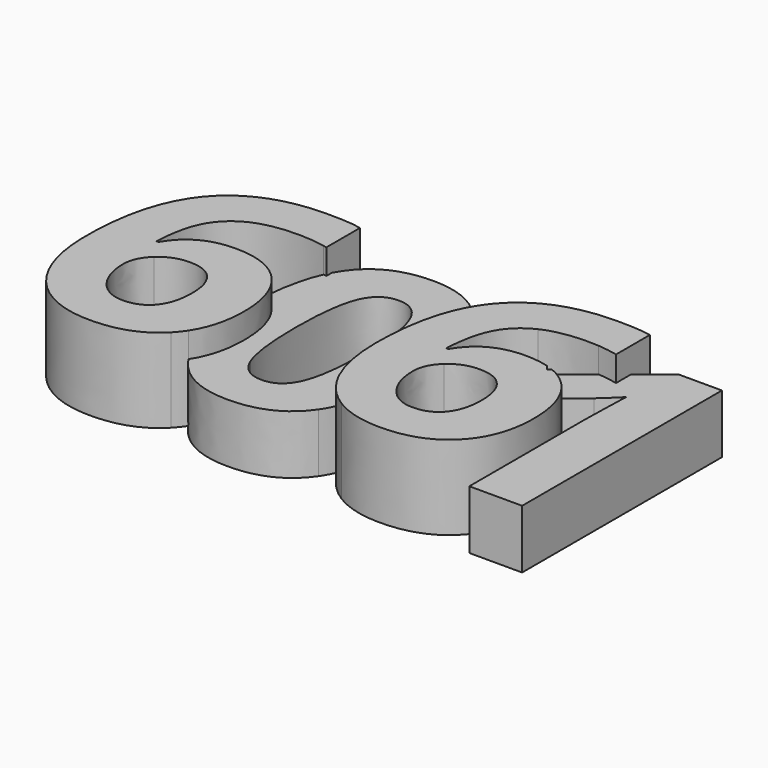
from build123d import *

# Parameters (mm, degrees)
F1_DEPTH = 12.7
F2_DEPTH = 8.89


with BuildPart() as f1:
    # F0 (on Top) → F1 (new body)
    with BuildSketch(Plane.XY):
        with BuildLine():
            add(Edge.make_bspline(
                [(8.2103515625, 22.3986328125), (8.2103515625, 33.6103515625), (12.9521809896, 39.0880533854)],
                knots=[0, 0, 0, 1, 1, 1], degree=2))
            add(Edge.make_bspline(
                [(9.9012044271, 13.4276041667), (8.2103515625, 17.1483072917), (8.2103515625, 22.3986328125)],
                knots=[0, 0, 0, 1, 1, 1], degree=2))
            add(Edge.make_bspline(
                [(14.7091796875, 7.7680013021), (11.5920572917, 9.7069010417), (9.9012044271, 13.4276041667)],
                knots=[0, 0, 0, 1, 1, 1], degree=2))
            add(Edge.make_bspline(
                [(22.0100260417, 5.8291015625), (17.8263020833, 5.8291015625), (14.7091796875, 7.7680013021)],
                knots=[0, 0, 0, 1, 1, 1], degree=2))
            add(Edge.make_bspline(
                [(31.4647460938, 9.3596354167), (28.0541015625, 5.8291015625), (22.0100260417, 5.8291015625)],
                knots=[0, 0, 0, 1, 1, 1], degree=2))
            add(Edge.make_bspline(
                [(32.795240657, 11.0268832409), (32.2118118083, 10.132961623), (31.4647460938, 9.3596354167)],
                knots=[0.7809605464, 0.7809605464, 0.7809605464, 1, 1, 1], degree=2))
            add(Edge.make_bspline(
                [(32.795240657, 11.0268832409), (29.6638070775, 15.9274467853), (29.6638070775, 25.2346354167)],
                knots=[0.0287689131, 0.0287689131, 0.0287689131, 1, 1, 1], degree=2))
            add(Edge.make_bspline(
                [(29.6638070775, 25.2346354167), (29.6638070775, 27.5010676278), (29.8297195285, 29.4974147364)],
                knots=[0, 0, 0, 0.2265399802, 0.2265399802, 0.2265399802], degree=2))
            add(Edge.make_bspline(
                [(24.0770833333, 30.8983723958), (27.436176177, 30.8983723958), (29.8297195285, 29.4974147364)],
                knots=[0, 0, 0, 0.6638318419, 0.6638318419, 0.6638318419], degree=2))
            add(Edge.make_bspline(
                [(15.8832682292, 26.5079427083), (18.4464192708, 30.8983723958), (24.0770833333, 30.8983723958)],
                knots=[0, 0, 0, 1, 1, 1], degree=2))
            Line((15.8832682292, 26.5079427083), (15.5525390625, 26.5079427083))
            add(Edge.make_bspline(
                [(17.0738932292, 33.4036458333), (15.7840494792, 30.9727864583), (15.5525390625, 26.5079427083)],
                knots=[0, 0, 0, 1, 1, 1], degree=2))
            add(Edge.make_bspline(
                [(20.9599609375, 37.0747395833), (18.3637369792, 35.8345052083), (17.0738932292, 33.4036458333)],
                knots=[0, 0, 0, 1, 1, 1], degree=2))
            add(Edge.make_bspline(
                [(27.6654947917, 38.3149739583), (23.5561848958, 38.3149739583), (20.9599609375, 37.0747395833)],
                knots=[0, 0, 0, 1, 1, 1], degree=2))
            add(Edge.make_bspline(
                [(31.7424970988, 37.8953541031), (29.6840140474, 38.3149739583), (27.6654947917, 38.3149739583)],
                knots=[0.1024648052, 0.1024648052, 0.1024648052, 1, 1, 1], degree=2))
            add(Edge.make_bspline(
                [(31.7424970988, 37.8953541031), (31.9657682406, 38.3935660919), (32.2130208333, 38.8527392227)],
                knots=[0.8018631104, 0.8018631104, 0.8018631104, 0.8879908593, 0.8879908593, 0.8879908593], degree=2))
            Line((32.2130208333, 38.8527392227), (32.2130208333, 44.1771484375))
            add(Edge.make_bspline(
                [(27.1528645833, 44.5657552083), (30.3774739583, 44.5657552083), (32.2130208333, 44.1771484375)],
                knots=[0, 0, 0, 1, 1, 1], degree=2))
            add(Edge.make_bspline(
                [(12.9521809896, 39.0880533854), (17.6940104167, 44.5657552083), (27.1528645833, 44.5657552083)],
                knots=[0, 0, 0, 1, 1, 1], degree=2))
        make_face()
        with BuildLine():
            add(Edge.make_bspline(
                [(21.8529296875, 12.2121744792), (24.4078125, 12.2121744792), (25.7803385417, 13.9319661458)],
                knots=[0, 0, 0, 1, 1, 1], degree=2))
            add(Edge.make_bspline(
                [(17.7560221354, 14.3329752604), (19.3724609375, 12.2121744792), (21.8529296875, 12.2121744792)],
                knots=[0, 0, 0, 1, 1, 1], degree=2))
            add(Edge.make_bspline(
                [(16.1395833333, 19.5295572917), (16.1395833333, 16.4537760417), (17.7560221354, 14.3329752604)],
                knots=[0, 0, 0, 1, 1, 1], degree=2))
            add(Edge.make_bspline(
                [(17.859375, 23.1965169271), (16.1395833333, 21.6214192708), (16.1395833333, 19.5295572917)],
                knots=[0, 0, 0, 1, 1, 1], degree=2))
            add(Edge.make_bspline(
                [(22.0100260417, 24.7716145833), (19.5791666667, 24.7716145833), (17.859375, 23.1965169271)],
                knots=[0, 0, 0, 1, 1, 1], degree=2))
            add(Edge.make_bspline(
                [(25.8712890625, 23.1841145833), (24.5897135417, 24.7716145833), (22.0100260417, 24.7716145833)],
                knots=[0, 0, 0, 1, 1, 1], degree=2))
            add(Edge.make_bspline(
                [(27.1528645833, 18.8267578125), (27.1528645833, 21.5966145833), (25.8712890625, 23.1841145833)],
                knots=[0, 0, 0, 1, 1, 1], degree=2))
            add(Edge.make_bspline(
                [(25.7803385417, 13.9319661458), (27.1528645833, 15.6517578125), (27.1528645833, 18.8267578125)],
                knots=[0, 0, 0, 1, 1, 1], degree=2))
        make_face(mode=Mode.SUBTRACT)
        with BuildLine():
            add(Edge.make_bspline(
                [(32.795240657, 11.0268832409), (29.6638070775, 15.9274467853), (29.6638070775, 25.2346354167)],
                knots=[0.0287689131, 0.0287689131, 0.0287689131, 1, 1, 1], degree=2))
            add(Edge.make_bspline(
                [(34.875390625, 18.9342447917), (34.875390625, 14.2140602705), (32.795240657, 11.0268832409)],
                knots=[0, 0, 0, 0.7809605464, 0.7809605464, 0.7809605464], degree=2))
            add(Edge.make_bspline(
                [(32.0063151042, 27.7192382812), (34.875390625, 24.5401041667), (34.875390625, 18.9342447917)],
                knots=[0, 0, 0, 1, 1, 1], degree=2))
            add(Edge.make_bspline(
                [(29.8297195285, 29.4974147364), (31.0418232708, 28.7879619409), (32.0063151042, 27.7192382812)],
                knots=[0.6638318419, 0.6638318419, 0.6638318419, 1, 1, 1], degree=2))
            add(Edge.make_bspline(
                [(29.6638070775, 25.2346354167), (29.6638070775, 27.5010676278), (29.8297195285, 29.4974147364)],
                knots=[0, 0, 0, 0.2265399802, 0.2265399802, 0.2265399802], degree=2))
        make_face()
        with BuildLine():
            Line((32.2130208333, 37.7940755208), (32.2130208333, 38.8527392227))
            add(Edge.make_bspline(
                [(31.7424970988, 37.8953541031), (31.9657682406, 38.3935660919), (32.2130208333, 38.8527392227)],
                knots=[0.8018631104, 0.8018631104, 0.8018631104, 0.8879908593, 0.8879908593, 0.8879908593], degree=2))
            add(Edge.make_bspline(
                [(32.2130208333, 37.7940755208), (31.9774985408, 37.8474492778), (31.7424970988, 37.8953541031)],
                knots=[0, 0, 0, 0.1024648052, 0.1024648052, 0.1024648052], degree=2))
        make_face()
    extrude(amount=F1_DEPTH)


with BuildPart() as f1b:
    # F0 (on Top) → F1, piece 2 (new body)
    with BuildSketch(Plane.XY):
        with BuildLine():
            add(Edge.make_bspline(
                [(54.6259198543, 35.8256988861), (56.0725310358, 31.5261652084), (56.0725310358, 25.2346354167)],
                knots=[0.3423264239, 0.3423264239, 0.3423264239, 1, 1, 1], degree=2))
            add(Edge.make_bspline(
                [(52.0425251303, 22.3986328125), (52.0425251303, 30.6741399043), (54.6259198543, 35.8256988861)],
                knots=[0, 0, 0, 0.7381122624, 0.7381122624, 0.7381122624], degree=2))
            add(Edge.make_bspline(
                [(53.7333779949, 13.4276041667), (52.0425251303, 17.1483072917), (52.0425251303, 22.3986328125)],
                knots=[0, 0, 0, 1, 1, 1], degree=2))
            add(Edge.make_bspline(
                [(54.0400973389, 12.7903189671), (53.8812811577, 13.1021448843), (53.7333779949, 13.4276041667)],
                knots=[0.912527479, 0.912527479, 0.912527479, 1, 1, 1], degree=2))
            add(Edge.make_bspline(
                [(56.0725310358, 25.2346354167), (56.0725310358, 17.4038992469), (54.0400973389, 12.7903189671)],
                knots=[0, 0, 0, 0.7918791481, 0.7918791481, 0.7918791481], degree=2))
        make_face()
        with BuildLine():
            add(Edge.make_bspline(
                [(54.6259198543, 35.8256988861), (55.5425275766, 37.6535104477), (56.7843545574, 39.0880533854)],
                knots=[0.7381122624, 0.7381122624, 0.7381122624, 1, 1, 1], degree=2))
            add(Edge.make_bspline(
                [(54.6259198543, 35.8256988861), (56.0725310358, 31.5261652084), (56.0725310358, 25.2346354167)],
                knots=[0.3423264239, 0.3423264239, 0.3423264239, 1, 1, 1], degree=2))
            add(Edge.make_bspline(
                [(56.0725310358, 25.2346354167), (56.0725310358, 17.4038992469), (54.0400973389, 12.7903189671)],
                knots=[0, 0, 0, 0.7918791481, 0.7918791481, 0.7918791481], degree=2))
            add(Edge.make_bspline(
                [(58.5413532553, 7.7680013021), (55.6968934138, 9.5373005934), (54.0400973389, 12.7903189671)],
                knots=[0, 0, 0, 0.912527479, 0.912527479, 0.912527479], degree=2))
            add(Edge.make_bspline(
                [(65.8421996095, 5.8291015625), (61.6584756512, 5.8291015625), (58.5413532553, 7.7680013021)],
                knots=[0, 0, 0, 1, 1, 1], degree=2))
            add(Edge.make_bspline(
                [(75.2969196616, 9.3596354167), (71.8862751303, 5.8291015625), (65.8421996095, 5.8291015625)],
                knots=[0, 0, 0, 1, 1, 1], degree=2))
            add(Edge.make_bspline(
                [(78.7075641928, 18.9342447917), (78.7075641928, 12.8901692708), (75.2969196616, 9.3596354167)],
                knots=[0, 0, 0, 1, 1, 1], degree=2))
            add(Edge.make_bspline(
                [(75.838488672, 27.7192382812), (78.7075641928, 24.5401041667), (78.7075641928, 18.9342447917)],
                knots=[0, 0, 0, 1, 1, 1], degree=2))
            add(Edge.make_bspline(
                [(72.6030646042, 30.0286984991), (74.4700160214, 29.2356006275), (75.838488672, 27.7192382812)],
                knots=[0.5230266193, 0.5230266193, 0.5230266193, 1, 1, 1], degree=2))
            Line((72.6030646042, 30.0286984991), (72.1112003577, 29.6333333333))
            Line((72.1112003577, 29.6333333333), (71.472605306, 30.4295215844))
            add(Edge.make_bspline(
                [(67.9092569012, 30.8983723958), (69.8524986784, 30.8983723958), (71.472605306, 30.4295215844)],
                knots=[0, 0, 0, 0.3840280183, 0.3840280183, 0.3840280183], degree=2))
            add(Edge.make_bspline(
                [(59.715441797, 26.5079427083), (62.2785928387, 30.8983723958), (67.9092569012, 30.8983723958)],
                knots=[0, 0, 0, 1, 1, 1], degree=2))
            Line((59.715441797, 26.5079427083), (59.3847126303, 26.5079427083))
            add(Edge.make_bspline(
                [(60.906066797, 33.4036458333), (59.616223047, 30.9727864583), (59.3847126303, 26.5079427083)],
                knots=[0, 0, 0, 1, 1, 1], degree=2))
            add(Edge.make_bspline(
                [(64.7921345053, 37.0747395833), (62.195910547, 35.8345052083), (60.906066797, 33.4036458333)],
                knots=[0, 0, 0, 1, 1, 1], degree=2))
            add(Edge.make_bspline(
                [(71.4976683595, 38.3149739583), (67.3883584637, 38.3149739583), (64.7921345053, 37.0747395833)],
                knots=[0, 0, 0, 1, 1, 1], degree=2))
            add(Edge.make_bspline(
                [(73.0511625714, 38.2533060079), (72.2714788964, 38.3149739583), (71.4976683595, 38.3149739583)],
                knots=[0.6559249118, 0.6559249118, 0.6559249118, 1, 1, 1], degree=2))
            Line((73.0511625714, 38.2533060079), (76.0451944012, 40.6371411333))
            Line((76.0451944012, 40.6371411333), (76.0451944012, 44.1771484375))
            add(Edge.make_bspline(
                [(70.9850381512, 44.5657552083), (74.2096475262, 44.5657552083), (76.0451944012, 44.1771484375)],
                knots=[0, 0, 0, 1, 1, 1], degree=2))
            add(Edge.make_bspline(
                [(56.7843545574, 39.0880533854), (61.5261839845, 44.5657552083), (70.9850381512, 44.5657552083)],
                knots=[0, 0, 0, 1, 1, 1], degree=2))
        make_face()
        with BuildLine():
            add(Edge.make_bspline(
                [(65.6851032553, 12.2121744792), (68.2399860678, 12.2121744792), (69.6125121095, 13.9319661458)],
                knots=[0, 0, 0, 1, 1, 1], degree=2))
            add(Edge.make_bspline(
                [(61.5881957032, 14.3329752604), (63.2046345053, 12.2121744792), (65.6851032553, 12.2121744792)],
                knots=[0, 0, 0, 1, 1, 1], degree=2))
            add(Edge.make_bspline(
                [(59.9717569012, 19.5295572917), (59.9717569012, 16.4537760417), (61.5881957032, 14.3329752604)],
                knots=[0, 0, 0, 1, 1, 1], degree=2))
            add(Edge.make_bspline(
                [(61.6915485678, 23.1965169271), (59.9717569012, 21.6214192708), (59.9717569012, 19.5295572917)],
                knots=[0, 0, 0, 1, 1, 1], degree=2))
            add(Edge.make_bspline(
                [(65.8421996095, 24.7716145833), (63.4113402345, 24.7716145833), (61.6915485678, 23.1965169271)],
                knots=[0, 0, 0, 1, 1, 1], degree=2))
            add(Edge.make_bspline(
                [(69.7034626303, 23.1841145833), (68.4218871095, 24.7716145833), (65.8421996095, 24.7716145833)],
                knots=[0, 0, 0, 1, 1, 1], degree=2))
            add(Edge.make_bspline(
                [(70.9850381512, 18.8267578125), (70.9850381512, 21.5966145833), (69.7034626303, 23.1841145833)],
                knots=[0, 0, 0, 1, 1, 1], degree=2))
            add(Edge.make_bspline(
                [(69.6125121095, 13.9319661458), (70.9850381512, 15.6517578125), (70.9850381512, 18.8267578125)],
                knots=[0, 0, 0, 1, 1, 1], degree=2))
        make_face(mode=Mode.SUBTRACT)
        with BuildLine():
            Line((76.0451944012, 37.7940755208), (76.0451944012, 40.6371411333))
            Line((76.0451944012, 40.6371411333), (73.0511625714, 38.2533060079))
            add(Edge.make_bspline(
                [(76.0451944012, 37.7940755208), (74.5375065798, 38.1357457825), (73.0511625714, 38.2533060079)],
                knots=[0, 0, 0, 0.6559249118, 0.6559249118, 0.6559249118], degree=2))
        make_face()
    extrude(amount=F1_DEPTH)


with BuildPart() as f2:
    # F0 (on Top) → F2 (new body)
    with BuildSketch(Plane.XY):
        with BuildLine():
            add(Edge.make_bspline(
                [(32.2130208333, 38.8527392227), (32.5345728393, 39.4498938962), (32.8966846816, 39.9810221354)],
                knots=[0.8879908593, 0.8879908593, 0.8879908593, 1, 1, 1], degree=2))
            Line((32.2130208333, 38.8527392227), (32.2130208333, 37.7940755208))
            add(Edge.make_bspline(
                [(32.2130208333, 37.7940755208), (31.9774985408, 37.8474492778), (31.7424970988, 37.8953541031)],
                knots=[0, 0, 0, 0.1024648052, 0.1024648052, 0.1024648052], degree=2))
            add(Edge.make_bspline(
                [(29.8297195285, 29.4974147364), (30.2510723977, 34.5673572087), (31.7424970988, 37.8953541031)],
                knots=[0.2265399802, 0.2265399802, 0.2265399802, 0.8018631104, 0.8018631104, 0.8018631104], degree=2))
            add(Edge.make_bspline(
                [(29.8297195285, 29.4974147364), (31.0418232708, 28.7879619409), (32.0063151042, 27.7192382812)],
                knots=[0.6638318419, 0.6638318419, 0.6638318419, 1, 1, 1], degree=2))
            add(Edge.make_bspline(
                [(32.0063151042, 27.7192382812), (34.875390625, 24.5401041667), (34.875390625, 18.9342447917)],
                knots=[0, 0, 0, 1, 1, 1], degree=2))
            add(Edge.make_bspline(
                [(34.875390625, 18.9342447917), (34.875390625, 14.2140602705), (32.795240657, 11.0268832409)],
                knots=[0, 0, 0, 0.7809605464, 0.7809605464, 0.7809605464], degree=2))
            add(Edge.make_bspline(
                [(32.9835010879, 10.7404296875), (32.8879970995, 10.8817232594), (32.795240657, 11.0268832409)],
                knots=[0, 0, 0, 0.0287689131, 0.0287689131, 0.0287689131], degree=2))
            add(Edge.make_bspline(
                [(42.8433643691, 5.8291015625), (36.3031950983, 5.8291015625), (32.9835010879, 10.7404296875)],
                knots=[0, 0, 0, 1, 1, 1], degree=2))
            add(Edge.make_bspline(
                [(52.8313852025, 10.5874674479), (49.5902393691, 5.8291015625), (42.8433643691, 5.8291015625)],
                knots=[0, 0, 0, 1, 1, 1], degree=2))
            add(Edge.make_bspline(
                [(54.0400973389, 12.7903189671), (53.5059352343, 11.5777826095), (52.8313852025, 10.5874674479)],
                knots=[0.7918791481, 0.7918791481, 0.7918791481, 1, 1, 1], degree=2))
            add(Edge.make_bspline(
                [(54.0400973389, 12.7903189671), (53.8812811577, 13.1021448843), (53.7333779949, 13.4276041667)],
                knots=[0.912527479, 0.912527479, 0.912527479, 1, 1, 1], degree=2))
            add(Edge.make_bspline(
                [(53.7333779949, 13.4276041667), (52.0425251303, 17.1483072917), (52.0425251303, 22.3986328125)],
                knots=[0, 0, 0, 1, 1, 1], degree=2))
            add(Edge.make_bspline(
                [(52.0425251303, 22.3986328125), (52.0425251303, 30.6741399043), (54.6259198543, 35.8256988861)],
                knots=[0, 0, 0, 0.7381122624, 0.7381122624, 0.7381122624], degree=2))
            add(Edge.make_bspline(
                [(52.7280323379, 39.7619140625), (53.8729426168, 38.063654069), (54.6259198543, 35.8256988861)],
                knots=[0, 0, 0, 0.3423264239, 0.3423264239, 0.3423264239], degree=2))
            add(Edge.make_bspline(
                [(42.8433643691, 44.7228515625), (49.38353364, 44.7228515625), (52.7280323379, 39.7619140625)],
                knots=[0, 0, 0, 1, 1, 1], degree=2))
            add(Edge.make_bspline(
                [(32.8966846816, 39.9810221354), (36.1295622858, 44.7228515625), (42.8433643691, 44.7228515625)],
                knots=[0, 0, 0, 1, 1, 1], degree=2))
        make_face()
        with BuildLine():
            add(Edge.make_bspline(
                [(37.6013070775, 25.2346354167), (37.6013070775, 18.2893229167), (38.8002003066, 15.2796875)],
                knots=[0, 0, 0, 1, 1, 1], degree=2))
            add(Edge.make_bspline(
                [(38.8126026504, 35.22265625), (37.6013070775, 32.1882161458), (37.6013070775, 25.2346354167)],
                knots=[0, 0, 0, 1, 1, 1], degree=2))
            add(Edge.make_bspline(
                [(42.8433643691, 38.2570963542), (40.0238982233, 38.2570963542), (38.8126026504, 35.22265625)],
                knots=[0, 0, 0, 1, 1, 1], degree=2))
            add(Edge.make_bspline(
                [(46.8617237441, 35.22265625), (45.6049529108, 38.2570963542), (42.8433643691, 38.2570963542)],
                knots=[0, 0, 0, 1, 1, 1], degree=2))
            add(Edge.make_bspline(
                [(48.1184945775, 25.2346354167), (48.1184945775, 32.1882161458), (46.8617237441, 35.22265625)],
                knots=[0, 0, 0, 1, 1, 1], degree=2))
            add(Edge.make_bspline(
                [(46.8782602025, 15.3168945312), (48.1184945775, 18.3637369792), (48.1184945775, 25.2346354167)],
                knots=[0, 0, 0, 1, 1, 1], degree=2))
            add(Edge.make_bspline(
                [(42.8433643691, 12.2700520833), (45.6380258275, 12.2700520833), (46.8782602025, 15.3168945312)],
                knots=[0, 0, 0, 1, 1, 1], degree=2))
            add(Edge.make_bspline(
                [(38.8002003066, 15.2796875), (39.9990935358, 12.2700520833), (42.8433643691, 12.2700520833)],
                knots=[0, 0, 0, 1, 1, 1], degree=2))
        make_face(mode=Mode.SUBTRACT)
    extrude(amount=F2_DEPTH)


with BuildPart() as f2b:
    # F0 (on Top) → F2, piece 2 (new body)
    with BuildSketch(Plane.XY):
        with BuildLine():
            Line((80.4290388993, 44.1275390625), (76.0451944012, 40.6371411333))
            Line((76.0451944012, 40.6371411333), (76.0451944012, 37.7940755208))
            add(Edge.make_bspline(
                [(76.0451944012, 37.7940755208), (74.5375065798, 38.1357457825), (73.0511625714, 38.2533060079)],
                knots=[0, 0, 0, 0.6559249118, 0.6559249118, 0.6559249118], degree=2))
            Line((73.0511625714, 38.2533060079), (68.258205566, 34.4371744792))
            Line((68.258205566, 34.4371744792), (71.472605306, 30.4295215844))
            add(Edge.make_bspline(
                [(71.472605306, 30.4295215844), (72.0590014644, 30.2598214487), (72.6030646042, 30.0286984991)],
                knots=[0.3840280183, 0.3840280183, 0.3840280183, 0.5230266193, 0.5230266193, 0.5230266193], degree=2))
            Line((72.6030646042, 30.0286984991), (76.4520206702, 33.1225260417))
            add(Edge.make_bspline(
                [(79.2136092118, 35.7270182292), (77.2292342118, 33.7426432292), (76.4520206702, 33.1225260417)],
                knots=[0, 0, 0, 1, 1, 1], degree=2))
            Line((79.2136092118, 35.7270182292), (79.0895857743, 31.799609375))
            Line((79.0895857743, 31.799609375), (79.0069034827, 28.2111979167))
            Line((79.0069034827, 28.2111979167), (79.0069034827, 6.35))
            Line((79.0069034827, 6.35), (86.9940128577, 6.35))
            Line((86.9940128577, 6.35), (86.9940128577, 44.1275390625))
            Line((86.9940128577, 44.1275390625), (80.4290388993, 44.1275390625))
        make_face()
    extrude(amount=F2_DEPTH)


solid = Compound([f1.part, f1b.part, f2.part, f2b.part])
